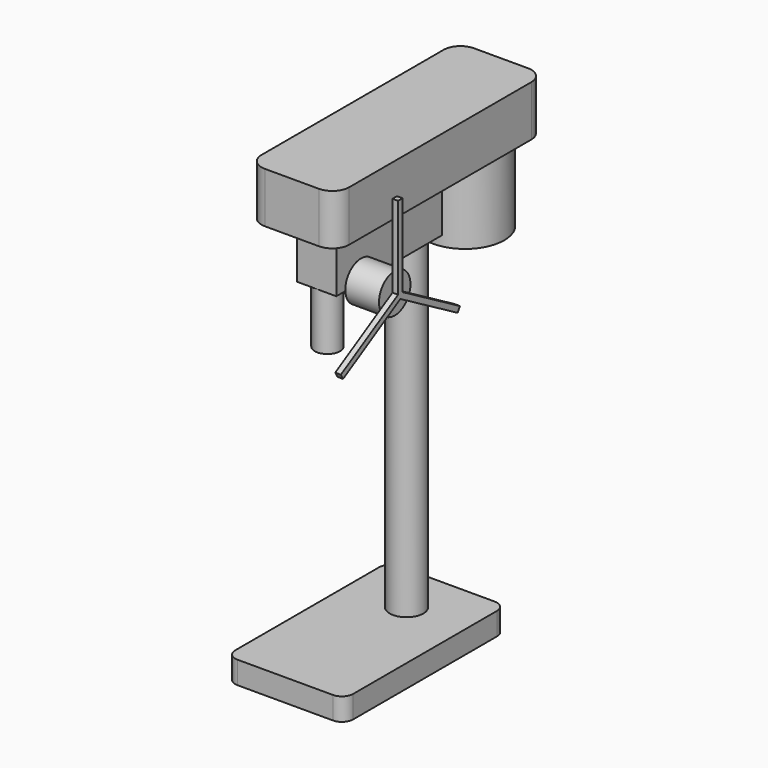
from build123d import *

# Parameters (mm, degrees)
F1_DEPTH  = 50.8
F2_R      = 38.1
F3_DEPTH  = 736.6
F4_W      = 88.9
F4_H      = 298.45
F5_DEPTH  = 133.35
F7_DEPTH  = 114.3
F8_R      = 88.9
F9_DEPTH  = 177.8
F10_R     = 44.45
F11_DEPTH = 76.2
F13_DEPTH = 12.7
F14_DEPTH = 12.7
F15_R     = 28.575
F16_DEPTH = 127


with BuildPart() as f1:
    # F0 (on Top) → F1 (new body)
    with BuildSketch(Plane.XY):
        with BuildLine():
            Line((107.95, 114.3), (-107.95, 114.3))
            ThreePointArc((-107.95, 114.3), (-125.910512, 106.860512), (-133.35, 88.9))
            Line((-133.35, 88.9), (-133.35, -317.5))
            ThreePointArc((-133.35, -317.5), (-125.910512, -335.460512), (-107.95, -342.9))
            Line((-107.95, -342.9), (107.95, -342.9))
            ThreePointArc((107.95, -342.9), (125.910512, -335.460512), (133.35, -317.5))
            Line((133.35, -317.5), (133.35, 88.9))
            ThreePointArc((133.35, 88.9), (125.910512, 106.860512), (107.95, 114.3))
        make_face()
    extrude(amount=F1_DEPTH)

    # F2 (on face) → F3 (join)
    with BuildSketch(Plane.XY.offset(50.8)):
        Circle(F2_R)
    extrude(amount=F3_DEPTH)

    # F4 (on face) → F5 (join)
    with BuildSketch(Plane.XY.offset(787.4)):
        with Locations((0, -104.775)):
            Rectangle(F4_W, F4_H)
    extrude(amount=F5_DEPTH)

    # F6 (on face) → F7 (join)
    with BuildSketch(Plane.XY.offset(920.75)):
        with BuildLine():
            Line((60.96, 266.7), (-60.96, 266.7))
            ThreePointArc((-60.96, 266.7), (-87.900768, 255.540768), (-99.06, 228.6))
            Line((-99.06, 228.6), (-99.06, -285.75))
            ThreePointArc((-99.06, -285.75), (-87.900768, -312.690768), (-60.96, -323.85))
            Line((-60.96, -323.85), (60.96, -323.85))
            ThreePointArc((60.96, -323.85), (87.900768, -312.690768), (99.06, -285.75))
            Line((99.06, -285.75), (99.06, 228.6))
            ThreePointArc((99.06, 228.6), (87.900768, 255.540768), (60.96, 266.7))
        make_face()
    extrude(amount=F7_DEPTH)

    # F8 (on face) → F9 (join)
    with BuildSketch(Plane(origin=(0, 0, 920.75), x_dir=(1, 0, 0), z_dir=(0, 0, -1))):
        with Locations((0, -165.1)):
            Circle(F8_R)
    extrude(amount=F9_DEPTH)

    # F10 (on face) → F11 (join)
    with BuildSketch(Plane.YZ.offset(44.45)):
        with Locations((-184.15, 789.94)):
            Circle(F10_R)
    extrude(amount=F11_DEPTH)

    # F12 (on face) → F13 (join)
    with BuildSketch(Plane.YZ.offset(120.65)):
        Polygon((-15.997161, 700.189261), (-177.8, 793.606174), (-177.8, 980.44), (-190.5, 980.44), (-190.5, 793.606174), (-352.302839, 700.189261), (-345.952839, 689.190739), (-184.15, 782.607652), (-22.347161, 689.190739), align=None)
    extrude(amount=F13_DEPTH)

    # F12 (on face) → F14 (join)
    with BuildSketch(Plane.YZ.offset(120.65)):
        Polygon((-15.997161, 700.189261), (-177.8, 793.606174), (-177.8, 980.44), (-190.5, 980.44), (-190.5, 793.606174), (-352.302839, 700.189261), (-345.952839, 689.190739), (-184.15, 782.607652), (-22.347161, 689.190739), align=None)
    extrude(amount=F14_DEPTH)

    # F15 (on face) → F16 (join)
    with BuildSketch(Plane(origin=(0, 0, 787.4), x_dir=(1, 0, 0), z_dir=(0, 0, -1))):
        with Locations((0, 223.52)):
            Circle(F15_R)
    extrude(amount=F16_DEPTH)


solid = f1.part
